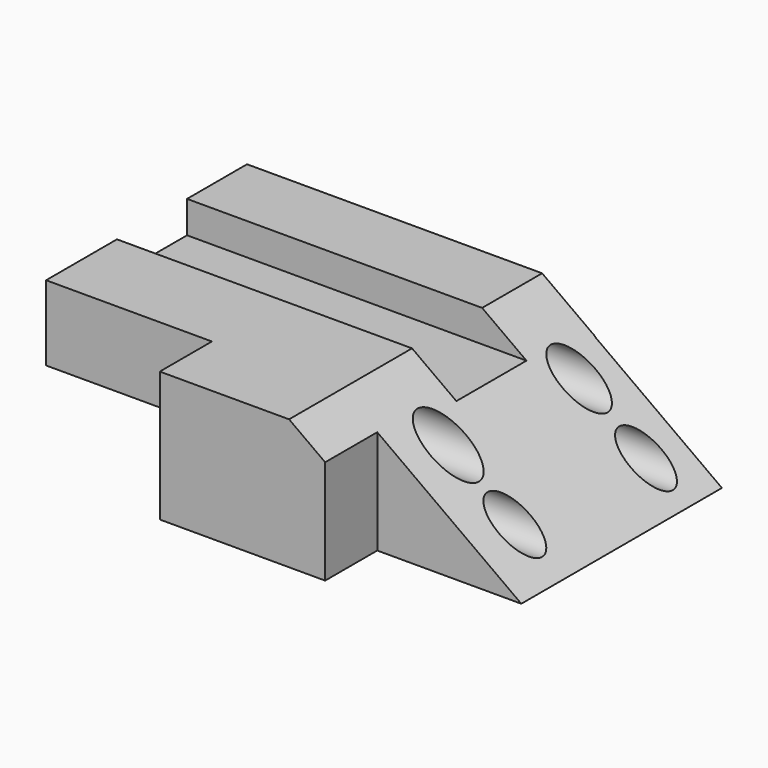
from build123d import *

# Parameters (mm, degrees)
F0_W      = 184.4983883202
F0_H      = 97.9466736317
F1_DEPTH  = 50.8
F2_W      = 48.7498342991
F2_H      = 32.1726370603
F3_DEPTH  = 51.816
F5_DEPTH  = 152.4
F6_DEPTH  = 97.79
F8_DEPTH  = 200.914
F9_W      = 64.6597607993
F9_H      = 21.533165127
F10_DEPTH = 2540
F12_DEPTH = 25.4
F13_W     = 34.1657865793
F13_H     = 12.4993889213
F14_DEPTH = 177.8
F15_R     = 8.0143887739
F16_DEPTH = 381
F15_R_2   = 8.6578968481
F17_DEPTH = 381
F15_R_3   = 7.6783249055
F18_DEPTH = 381
F15_R_4   = 7.5555874341
F19_DEPTH = 381


with BuildPart() as f1:
    # F0 (on Top) → F1 (new body)
    with BuildSketch(Plane.XY):
        with Locations((33.5375722498, 25.2984389663)):
            Rectangle(F0_W, F0_H)
    extrude(amount=F1_DEPTH)

    # F2 (on face) → F3 (cut)
    with BuildSketch(Plane.XY.offset(50.8)):
        with Locations((101.4118492603, -7.5885793194)):
            Rectangle(F2_W, F2_H)
    extrude(amount=-F3_DEPTH, mode=Mode.SUBTRACT)

    # F5 (cut): a face of the model
    f5_faces = [f1.faces().sort_by_distance(p)[0] for p in [
        (101.4118492603, 8.4977392107, 25.4),
    ]]
    extrude(f5_faces, amount=-F5_DEPTH, mode=Mode.SUBTRACT)

    # F4 (on face) → F6 (join)
    with BuildSketch(Plane.XZ.offset(23.6748978496)):
        Polygon((126.6083866358, 0), (77.0369321108, 35.8533561641), (77.0369321108, 0), align=None)
    extrude(amount=-F6_DEPTH)

    # F7 (on face) → F8 (cut)
    with BuildSketch(Plane.XZ.offset(23.6748978496)):
        Polygon((56.3714504242, 50.8), (77.0369321108, 35.8533561641), (77.0369321108, 50.8), align=None)
    extrude(amount=-F8_DEPTH, mode=Mode.SUBTRACT)

    # F9 (on face) → F10 (cut)
    with BuildSketch(Plane.XZ.offset(23.6748978496)):
        with Locations((-26.3817415107, 10.7665825635)):
            Rectangle(F9_W, F9_H)
    extrude(amount=-F10_DEPTH, mode=Mode.SUBTRACT)

    # F11 (on face) → F12 (join)
    with BuildSketch(Plane.XZ.offset(23.6748978496)):
        Polygon((5.9481388889, 21.533165127), (5.9481388889, 0), (70.435055404, 0), (70.435055404, 40.6282702591), (56.3714504242, 50.8), (5.9481388889, 50.8), align=None)
    extrude(amount=F12_DEPTH)

    # F13 (on face) → F14 (cut)
    with BuildSketch(Plane(origin=(-58.7116219103, 0, 0), x_dir=(0, -1, 0), z_dir=(-1, 0, 0))):
        with Locations((-27.9484977946, 44.5503055394)):
            Rectangle(F13_W, F13_H)
    extrude(amount=-F14_DEPTH, mode=Mode.SUBTRACT)

    # F15 (on face) → F16 (cut)
    with BuildSketch(Plane(origin=(-58.7116219103, 0, 0), x_dir=(0, -1, 0), z_dir=(-1, 0, 0))):
        with Locations((-57.373650372, 30.5959098041)):
            Circle(F15_R)
    extrude(amount=-F16_DEPTH, mode=Mode.SUBTRACT)

    # F15 (on face) → F17 (cut)
    with BuildSketch(Plane(origin=(-58.7116219103, 0, 0), x_dir=(0, -1, 0), z_dir=(-1, 0, 0))):
        with Locations((3.9370707236, 32.0339165628)):
            Circle(F15_R_2)
    extrude(amount=-F17_DEPTH, mode=Mode.SUBTRACT)

    # F15 (on face) → F18 (cut)
    with BuildSketch(Plane(origin=(-58.7116219103, 0, 0), x_dir=(0, -1, 0), z_dir=(-1, 0, 0))):
        with Locations((3.9370707236, 13.242979534)):
            Circle(F15_R_3)
    extrude(amount=-F18_DEPTH, mode=Mode.SUBTRACT)

    # F15 (on face) → F19 (cut)
    with BuildSketch(Plane(origin=(-58.7116219103, 0, 0), x_dir=(0, -1, 0), z_dir=(-1, 0, 0))):
        with Locations((-57.373650372, 11.7202522233)):
            Circle(F15_R_4)
    extrude(amount=-F19_DEPTH, mode=Mode.SUBTRACT)


solid = f1.part
